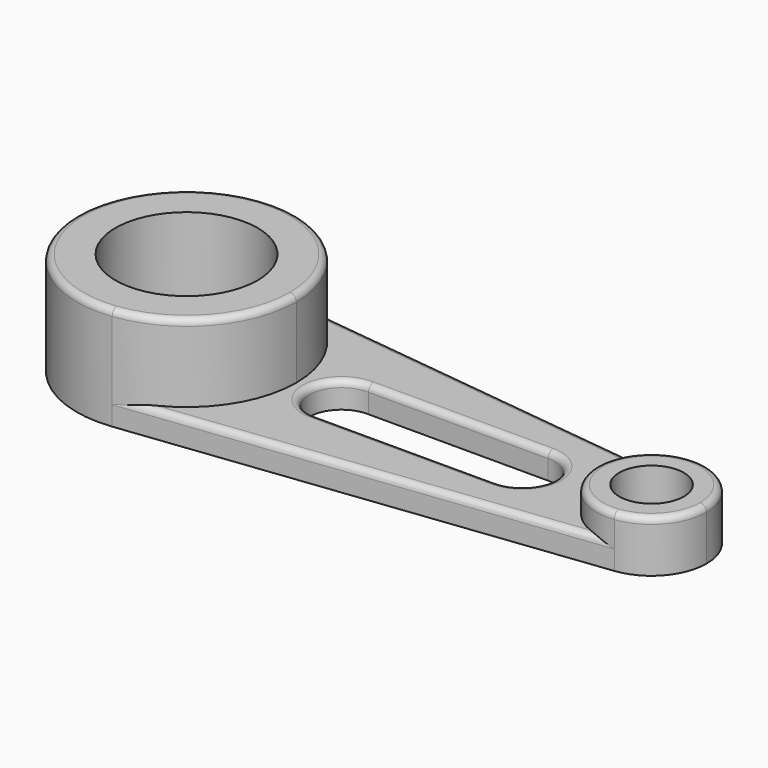
from build123d import *

# Parameters (mm, degrees)
F0_R     = 34.925
F1_DEPTH = 50.8
F0_R_2   = 12.7
F2_DEPTH = 25.4
F3_DEPTH = 12.7
F4_R     = 3.175
F5_R     = 3.175
F5_2_R   = 3.175
F5_3_R   = 3.175
F6_R     = 3.175
F7_D     = 31.75


with BuildPart() as f1:
    # F0 (on Top) → F1 (new body)
    with BuildSketch(Plane.XY):
        with BuildLine():
            ThreePointArc((-156.2598375408, -7.0058976266), (-122.2657921287, 10.7452932364), (-108.6418930964, 46.5934351087))
            ThreePointArc((-108.6418930964, 46.5934351087), (-122.2657921287, 82.4415769809), (-156.2598375408, 100.1927678439))
            ThreePointArc((-156.2598375408, 100.1927678439), (-216.5918930964, 46.5934351087), (-156.2598375408, -7.0058976266))
        make_face()
        with Locations((-162.6168930964, 46.5934351087)):
            Circle(F0_R, mode=Mode.SUBTRACT)
    extrude(amount=F1_DEPTH)

    # F5#2
    f5_2_edges = [f1.edges().sort_by_distance(p)[0] for p in [
        (-168.973949, 100.192768, 50.8),
    ]]
    fillet(f5_2_edges, radius=F5_2_R)


with BuildPart() as f2:
    # F0 (on Top) → F2 (new body)
    with BuildSketch(Plane.XY):
        with BuildLine():
            ThreePointArc((93.0341069036, 46.5934351087), (86.2061292709, 64.5596803294), (69.1691135703, 73.4561595148))
            ThreePointArc((69.1691135703, 73.4561595148), (38.9321069036, 46.5934351087), (69.1691135703, 19.7307107025))
            ThreePointArc((69.1691135703, 19.7307107025), (86.2061292709, 28.627189888), (93.0341069036, 46.5934351087))
        make_face()
        with Locations((65.9831069036, 46.5934351087)):
            Circle(F0_R_2, mode=Mode.SUBTRACT)
    extrude(amount=F2_DEPTH)

    # F5#3
    f5_3_edges = [f2.edges().sort_by_distance(p)[0] for p in [
        (62.7971, 73.45616, 25.4),
    ]]
    fillet(f5_3_edges, radius=F5_3_R)

    # F7 (through all)
    with Locations(Plane(origin=(0, 0, 0), x_dir=(1, 0, 0), z_dir=(0, 0, -1))):
        with Locations((-162.6168930964, -46.5934351087), (65.9831069036, -46.5934351087)):
            Hole(F7_D / 2)


with BuildPart() as f3:
    # F0 (on Top) → F3 (new body)
    with BuildSketch(Plane.XY):
        with BuildLine():
            ThreePointArc((-156.2598375408, 100.1927678439), (-122.2657921287, 82.4415769809), (-108.6418930964, 46.5934351087))
            ThreePointArc((-108.6418930964, 46.5934351087), (-122.2657921287, 10.7452932364), (-156.2598375408, -7.0058976266))
            Line((-156.2598375408, -7.0058976266), (69.1691135703, 19.7307107025))
            ThreePointArc((69.1691135703, 19.7307107025), (38.9321069036, 46.5934351087), (69.1691135703, 73.4561595148))
            Line((69.1691135703, 73.4561595148), (-156.2598375408, 100.1927678439))
        make_face()
        with BuildLine():
            ThreePointArc((-85.8997801759, 30.726859573), (-102.2918603699, 46.6256696303), (-85.8353497418, 62.457779795))
            Line((-85.8353497418, 62.457779795), (2.4796797332, 62.4577790551))
            ThreePointArc((2.4796797332, 62.4577790551), (18.3581069036, 46.5827794251), (2.4796797332, 30.707779795))
            Line((2.4796797332, 30.707779795), (-85.8997801759, 30.726859573))
        make_face(mode=Mode.SUBTRACT)
    extrude(amount=F3_DEPTH)

    # F4
    f4_edges = [f3.edges().sort_by_distance(p)[0] for p in [
        (-43.545362, 6.362407, 12.7),
    ]]
    fillet(f4_edges, radius=F4_R)

    # F5
    f5_edges = [f3.edges().sort_by_distance(p)[0] for p in [
        (-43.545362, 86.824464, 12.7),
    ]]
    fillet(f5_edges, radius=F5_R)

    # F6
    f6_edges = [f3.edges().sort_by_distance(p)[0] for p in [
        (-41.677835, 62.457779, 12.7),
        (-41.71005, 30.71732, 12.7),
        (-102.29186, 46.62567, 12.7),
        (18.358107, 46.582779, 12.7),
    ]]
    fillet(f6_edges, radius=F6_R)


solid = Compound([f1.part, f2.part, f3.part])
